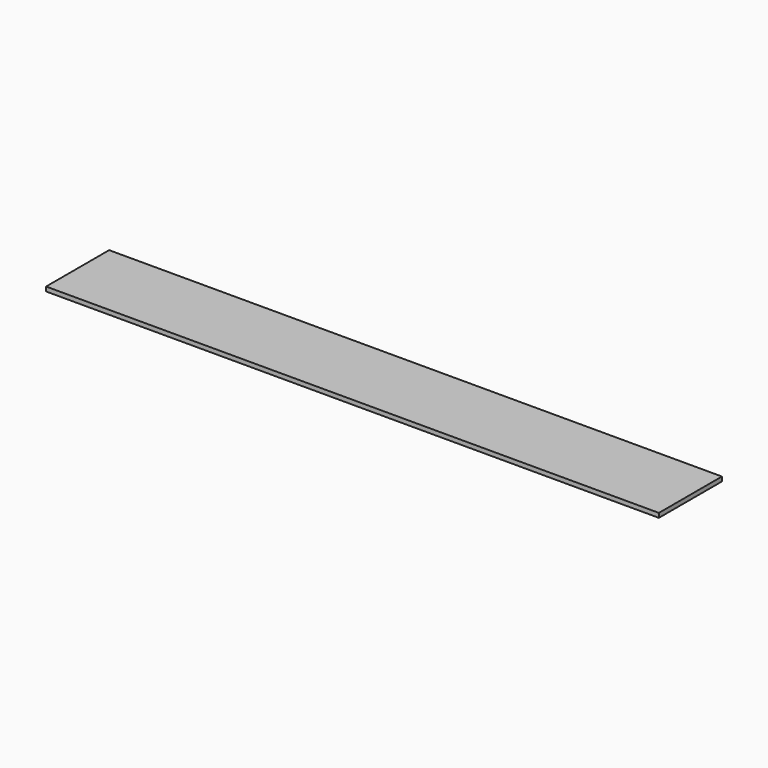
from build123d import *

# Parameters (mm, degrees)
SKETCH_W  = 1400
SKETCH_H  = 180
PAD_DEPTH = 10


with BuildPart() as part:
    # Sketch → Pad (new body)
    with BuildSketch(Plane.XY):
        with Locations((700, 90)):
            Rectangle(SKETCH_W, SKETCH_H)
    extrude(amount=PAD_DEPTH)


solid = part.part
